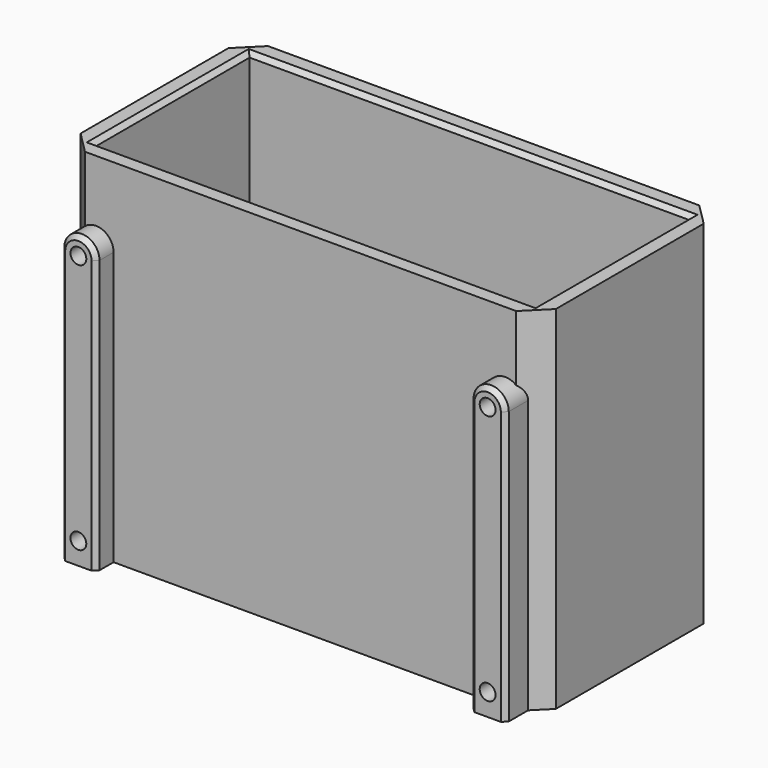
from build123d import *

# Parameters (mm, degrees)
F0_W     = 108
F0_H     = 52
F0_W_2   = 100
F0_H_2   = 44
F1_DEPTH = 80
F2_DEPTH = 2
F3_R     = 3.5
F3_R_2   = 1.8
F4_DEPTH = 5
F5_DEPTH = 25
F6_SIZE  = 5
F7_SIZE  = 1
F8_W     = 84
F8_H     = 37
F9_DEPTH = 25


with BuildPart() as f1:
    # F0 (on Top) → F1 (new body)
    with BuildSketch(Plane.XY):
        Rectangle(F0_W, F0_H)
        Rectangle(F0_W_2, F0_H_2, mode=Mode.SUBTRACT)
    extrude(amount=F1_DEPTH)

    # F0 (on Top) → F2 (join)
    with BuildSketch(Plane.XY):
        Rectangle(F0_W_2, F0_H_2)
    extrude(amount=F2_DEPTH)

    # F3 (on face) → F4 (join)
    with BuildSketch(Plane.XZ.offset(26)):
        with BuildLine():
            Line((-42.5, 0), (-42.5, 62))
            ThreePointArc((-42.5, 62), (-46.5, 66), (-50.5, 62))
            Line((-50.5, 62), (-50.5, 0))
            Line((-50.5, 0), (-42.5, 0))
        make_face()
        with Locations((-46.5, 5)):
            Circle(F3_R, mode=Mode.SUBTRACT)
        with Locations((-46.5, 62)):
            Circle(F3_R, mode=Mode.SUBTRACT)
        with BuildLine():
            Line((42.5, 62), (42.5, 0))
            Line((42.5, 0), (50.5, 0))
            Line((50.5, 0), (50.5, 62))
            ThreePointArc((50.5, 62), (46.5, 66), (42.5, 62))
        make_face()
        with Locations((46.5, 5)):
            Circle(F3_R, mode=Mode.SUBTRACT)
        with Locations((46.5, 62)):
            Circle(F3_R, mode=Mode.SUBTRACT)
        with Locations((46.5, 62)):
            Circle(F3_R)
        with Locations((46.5, 62)):
            Circle(F3_R_2, mode=Mode.SUBTRACT)
        with Locations((-46.5, 62)):
            Circle(F3_R)
        with Locations((-46.5, 62)):
            Circle(F3_R_2, mode=Mode.SUBTRACT)
        with Locations((-46.5, 5)):
            Circle(F3_R)
        with Locations((-46.5, 5)):
            Circle(F3_R_2, mode=Mode.SUBTRACT)
        with Locations((46.5, 5)):
            Circle(F3_R)
        with Locations((46.5, 5)):
            Circle(F3_R_2, mode=Mode.SUBTRACT)
    extrude(amount=F4_DEPTH)

    # F3 (on face) → F5 (cut)
    with BuildSketch(Plane.XZ.offset(26)):
        with Locations((-46.5, 5)):
            Circle(F3_R)
        with Locations((-46.5, 5)):
            Circle(F3_R_2, mode=Mode.SUBTRACT)
        with Locations((46.5, 5)):
            Circle(F3_R)
        with Locations((46.5, 5)):
            Circle(F3_R_2, mode=Mode.SUBTRACT)
        with Locations((46.5, 62)):
            Circle(F3_R)
        with Locations((46.5, 62)):
            Circle(F3_R_2, mode=Mode.SUBTRACT)
        with Locations((46.5, 62)):
            Circle(F3_R_2)
        with Locations((46.5, 5)):
            Circle(F3_R_2)
        with Locations((-46.5, 5)):
            Circle(F3_R_2)
        with Locations((-46.5, 62)):
            Circle(F3_R)
        with Locations((-46.5, 62)):
            Circle(F3_R_2, mode=Mode.SUBTRACT)
        with Locations((-46.5, 62)):
            Circle(F3_R_2)
    extrude(amount=-F5_DEPTH, mode=Mode.SUBTRACT)

    # F6
    f6_edges = [f1.edges().sort_by_distance(p)[0] for p in [
        (54, 26, 40),
        (54, -26, 40),
        (-54, -26, 40),
        (-54, 26, 40),
    ]]
    chamfer(f6_edges, length=F6_SIZE)

    # F7
    f7_edges = [f1.edges().sort_by_distance(p)[0] for p in [
        (0, 22, 80),
        (-50, 0, 80),
        (0, -22, 80),
        (50, 0, 80),
        (-42.5, -31, 31),
        (-50.5, -31, 31),
        (42.5, -31, 31),
    ]]
    chamfer(f7_edges, length=F7_SIZE)

    # F8 (on face) → F9 (cut)
    with BuildSketch(Plane.XY.offset(2)):
        Rectangle(F8_W, F8_H)
    extrude(amount=-F9_DEPTH, mode=Mode.SUBTRACT)


solid = f1.part
